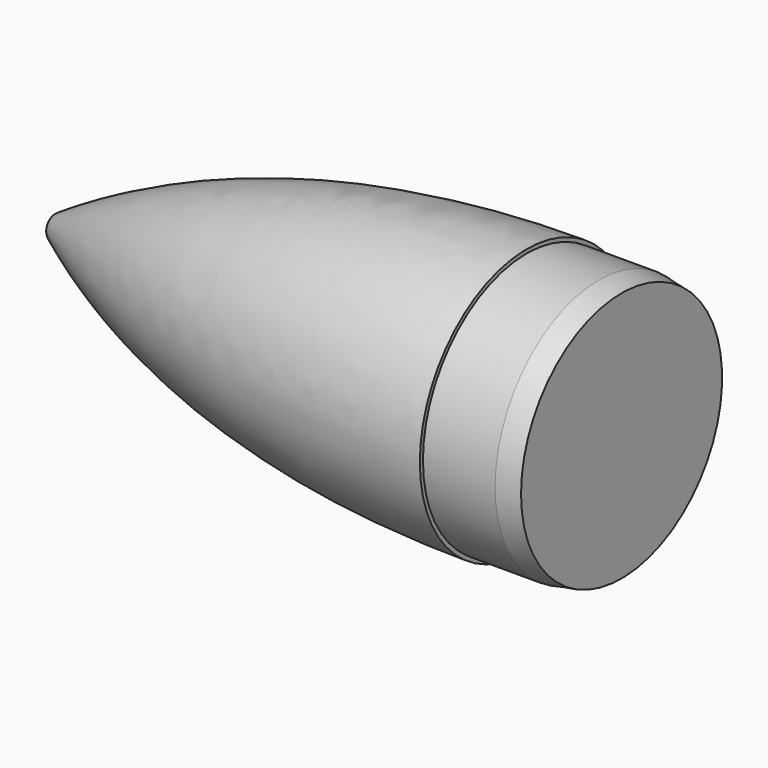
from build123d import *

# Parameters (mm, degrees)
CHAMFER_ANGLE = 10
CHAMFER_SIZE  = 12
FILLET003_R   = 5


with BuildPart() as part:
    # Sketch012 → Revolution003 (revolve)
    with BuildSketch(Plane.XY):
        with BuildLine():
            Line((-1168.4, 0), (-1418.4, 0))
            Line((-1418.4, 0), (-1418.4, -5))
            add(Edge.make_bspline(
                [(-1168.4, -70.358), (-1318.4, -70.358), (-1418.4, -5)],
                knots=[0, 0, 0, 1, 1, 1], degree=2))
            Line((-1168.4, -70.358), (-1168.4, -68.326))
            Line((-1168.4, -68.326), (-1118.4, -68.326))
            Line((-1118.4, -68.326), (-1118.4, 0))
            Line((-1118.4, 0), (-1168.4, 0))
        make_face()
    revolve(axis=Axis((0, 0, 0), (1, 0, 0)))

    # Chamfer
    chamfer_edges = [part.edges().sort_by_distance(p)[0] for p in [
        (-1118.4, 68.326, 0),
    ]]
    chamfer_side = part.faces().sort_by_distance((-1143.4, 68.326, 0))[0]
    chamfer(chamfer_edges, length=CHAMFER_SIZE, angle=CHAMFER_ANGLE, reference=chamfer_side)

    # Fillet003
    fillet003_edges = [part.edges().sort_by_distance(p)[0] for p in [
        (-1418.4, 5, 0),
    ]]
    fillet(fillet003_edges, radius=FILLET003_R)


solid = part.part
